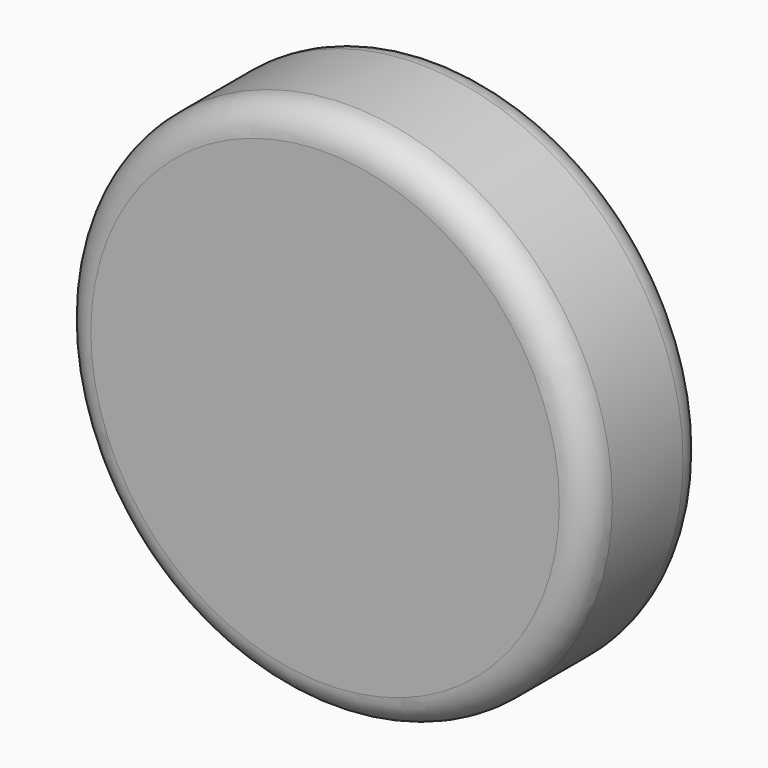
from build123d import *

# Parameters (mm, degrees)
F0_R     = 45.483299
F1_DEPTH = 25.4
F2_R     = 5.08


with BuildPart() as f1:
    # F0 (on Front) → F1 (new body)
    with BuildSketch(Plane.XZ):
        Circle(F0_R)
    extrude(amount=F1_DEPTH)

    # F2
    f2_edges = [f1.edges().sort_by_distance(p)[0] for p in [
        (45.483299, -12.7, 0),
        (-45.483299, 0, 0),
        (-45.483299, -25.4, 0),
    ]]
    fillet(f2_edges, radius=F2_R)


solid = f1.part
